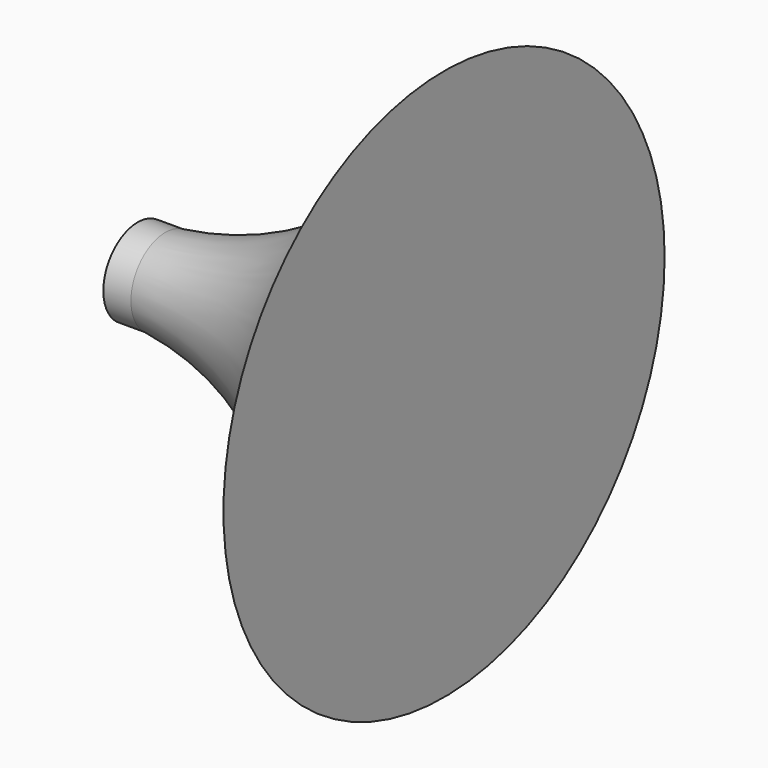
from build123d import *


with BuildPart() as f1:
    # F0 (on Top) → F1 (revolve)
    with BuildSketch(Plane.XY):
        with BuildLine():
            Line((-50.554093, 0), (0, 0))
            Line((0, 0), (0, 50))
            ThreePointArc((0, 50), (-18.9683, 21.339512), (-50.554093, 7.791167))
            Line((-50.554093, 7.791167), (-55.554093, 7.791167))
            Line((-55.554093, 7.791167), (-55.554093, 5.791167))
            Line((-55.554093, 5.791167), (-50.554093, 5.791167))
            Line((-50.554093, 5.791167), (-50.554093, 0))
        make_face()
    revolve(axis=Axis((-25.277047, 0, 0), (1, 0, 0)))


solid = f1.part
